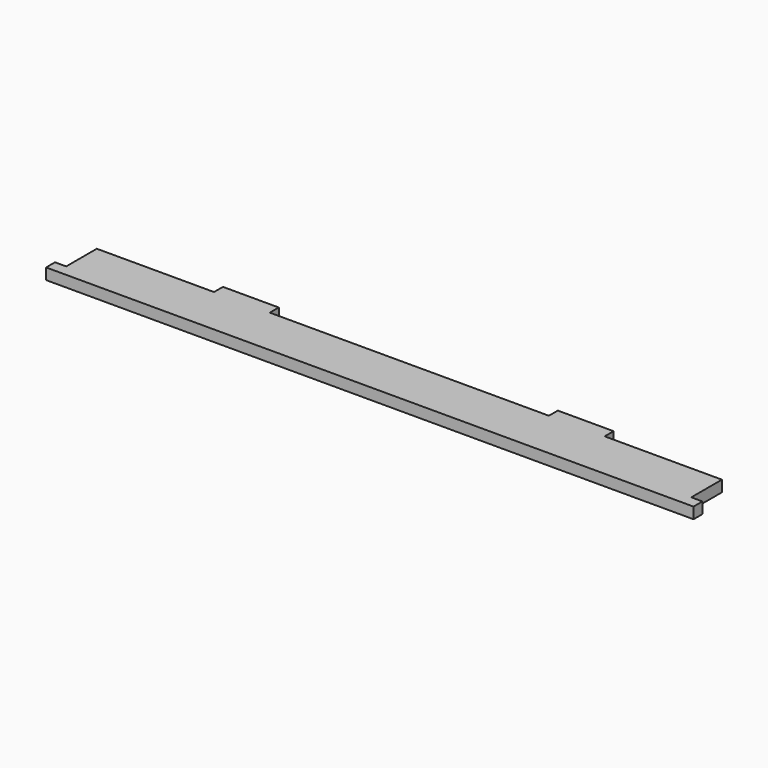
from build123d import *

# Parameters (mm, degrees)
PAD_DEPTH = 10


with BuildPart() as part:
    # Sketch → Pad (new body)
    with BuildSketch(Plane.XY):
        Polygon((0, 0), (-10, 0), (-10, 10), (0, 10), (0, 44.2929), (105, 44.2929), (105, 54.2929), (155, 54.2929), (155, 44.2929), (280, 44.2929), (405, 44.2929), (405, 54.2929), (455, 54.2929), (455, 44.2929), (560, 44.2929), (560, 10), (570, 10), (570, 0), align=None)
    extrude(amount=PAD_DEPTH)


solid = part.part
